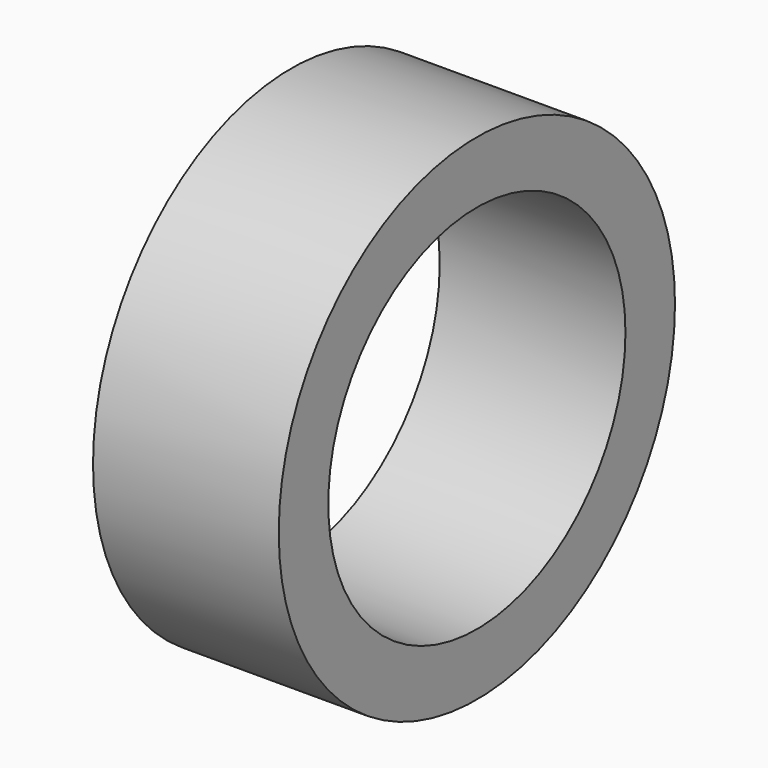
from build123d import *

# Parameters (mm, degrees)
SKETCH_R   = 25.4
SKETCH_R_2 = 19.05
PAD_DEPTH  = 19.05


with BuildPart() as part:
    # Sketch → Pad (new body)
    with BuildSketch(Plane.YZ):
        Circle(SKETCH_R)
        Circle(SKETCH_R_2, mode=Mode.SUBTRACT)
    extrude(amount=PAD_DEPTH)


solid = part.part
